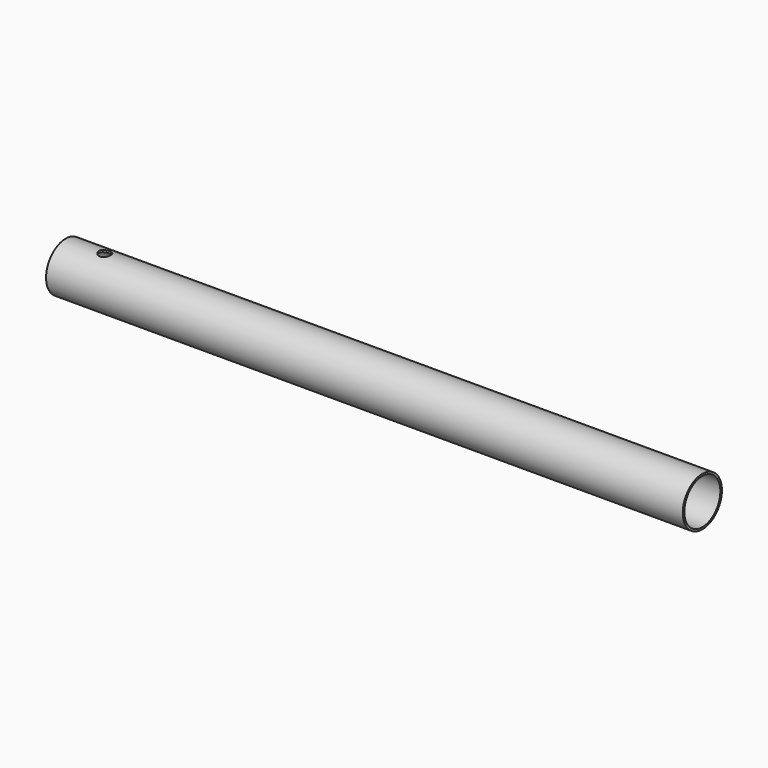
from build123d import *

# Parameters (mm, degrees)
F0_R     = 12.5
F0_R_2   = 11.5
F1_DEPTH = 325
F3_D     = 6
F4_D     = 6


with BuildPart() as f1:
    # F0 (on Right) → F1 (new body)
    with BuildSketch(Plane.YZ):
        Circle(F0_R)
        Circle(F0_R_2, mode=Mode.SUBTRACT)
    extrude(amount=F1_DEPTH)

    # F3 (through all)
    with Locations(Plane(origin=(0, 0, 0), x_dir=(1, 0, 0), z_dir=(0, 0, -1))):
        with Locations((20, 0)):
            Hole(F3_D / 2)

    # F4 (through all)
    with Locations(Plane.XY):
        with Locations((20, 0)):
            Hole(F4_D / 2)


solid = f1.part
